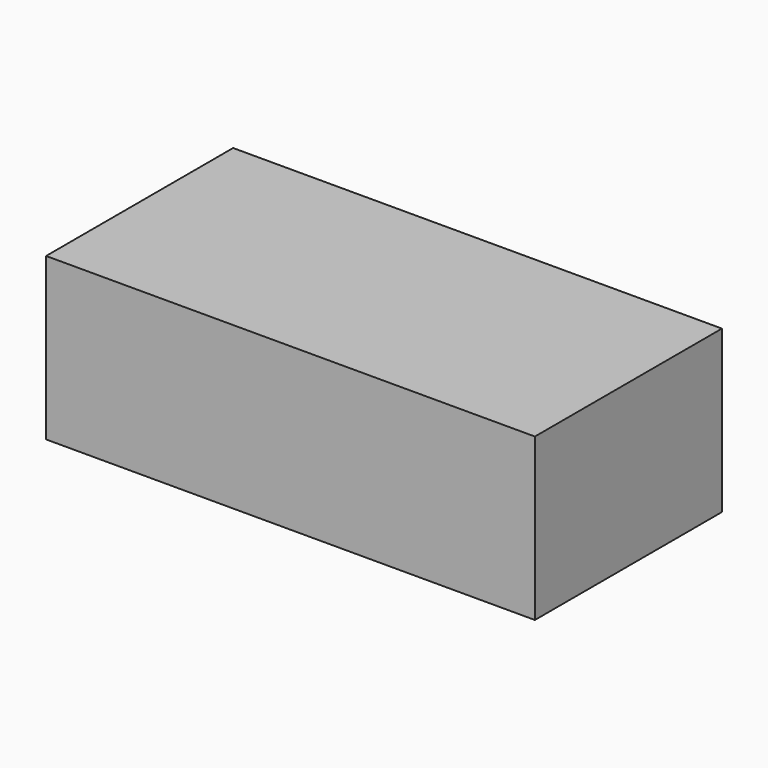
from build123d import *

# Parameters (mm, degrees)
CYLINDER001_R     = 18
CYLINDER001_DEPTH = 76
CYLINDER002_R     = 18
CYLINDER002_DEPTH = 76
CYLINDER003_R     = 18
CYLINDER003_DEPTH = 76
CYLINDER004_R     = 18
CYLINDER004_DEPTH = 76
CYLINDER005_R     = 18
CYLINDER005_DEPTH = 76
CYLINDER_R        = 18
CYLINDER_DEPTH    = 76
BOX_W             = 230
BOX_H             = 110
BOX_DEPTH         = 76


with BuildPart() as cylinder001:
    # Cylinder001 → Cylinder001 (new body)
    with BuildSketch(Plane(origin=(115, 31, 0), x_dir=(1, 0, 0), z_dir=(0, 0, 1))):
        Circle(CYLINDER001_R)
    extrude(amount=CYLINDER001_DEPTH)


with BuildPart() as cylinder002:
    # Cylinder002 → Cylinder002 (new body)
    with BuildSketch(Plane(origin=(187, 31, 0), x_dir=(1, 0, 0), z_dir=(0, 0, 1))):
        Circle(CYLINDER002_R)
    extrude(amount=CYLINDER002_DEPTH)


with BuildPart() as cylinder003:
    # Cylinder003 → Cylinder003 (new body)
    with BuildSketch(Plane(origin=(187, 79, 0), x_dir=(1, 0, 0), z_dir=(0, 0, 1))):
        Circle(CYLINDER003_R)
    extrude(amount=CYLINDER003_DEPTH)


with BuildPart() as cylinder004:
    # Cylinder004 → Cylinder004 (new body)
    with BuildSketch(Plane(origin=(115, 79, 0), x_dir=(1, 0, 0), z_dir=(0, 0, 1))):
        Circle(CYLINDER004_R)
    extrude(amount=CYLINDER004_DEPTH)


with BuildPart() as cylinder005:
    # Cylinder005 → Cylinder005 (new body)
    with BuildSketch(Plane(origin=(43, 79, 0), x_dir=(1, 0, 0), z_dir=(0, 0, 1))):
        Circle(CYLINDER005_R)
    extrude(amount=CYLINDER005_DEPTH)


with BuildPart() as obj1:
    # Cylinder → Cylinder (new body)
    with BuildSketch(Plane(origin=(43, 31, 0), x_dir=(1, 0, 0), z_dir=(0, 0, 1))):
        Circle(CYLINDER_R)
    extrude(amount=CYLINDER_DEPTH)

    # Fusion: union Cylinder001, Cylinder002, Cylinder003, Cylinder004, Cylinder005
    add(cylinder001.part)
    add(cylinder002.part)
    add(cylinder003.part)
    add(cylinder004.part)
    add(cylinder005.part)


with BuildPart() as obj2:
    # Box → Box (new body)
    with BuildSketch(Plane.XY.offset(1)):
        with Locations((115, 55)):
            Rectangle(BOX_W, BOX_H)
    extrude(amount=BOX_DEPTH)

    # Cut: cut obj1
    add(obj1.part, mode=Mode.SUBTRACT)


solid = obj2.part
